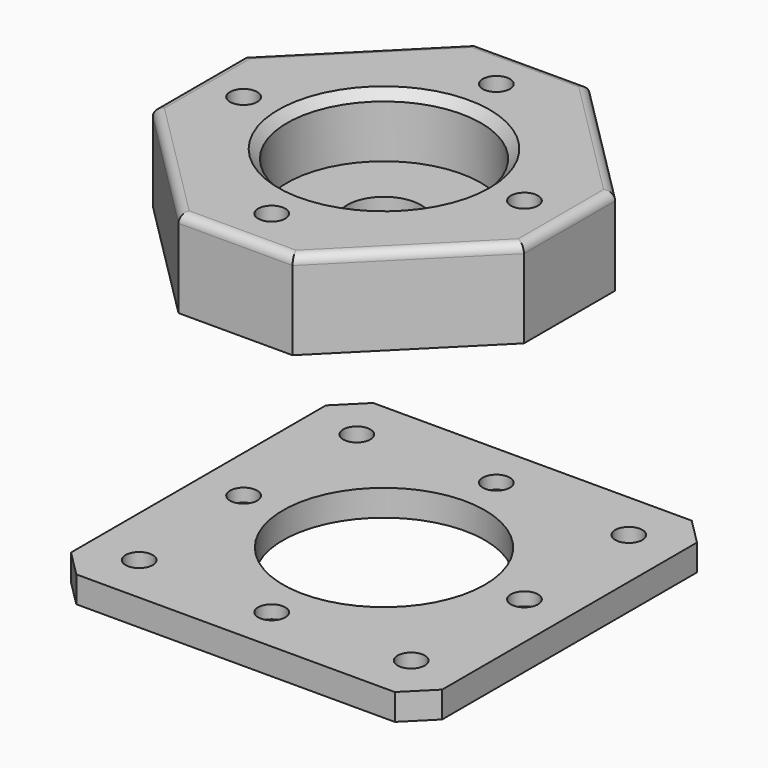
from build123d import *

# Parameters (mm, degrees)
SKETCH_W        = 42.3
SKETCH_H        = 42.3
SKETCH_R        = 1.55
SKETCH_R_2      = 11.5
PAD_DEPTH       = 3
SKETCH001_R     = 3.5
POCKET_DEPTH    = 1.5
CHAMFER_SIZE    = 3
SKETCH002_R     = 1.55
PAD001_DEPTH    = 10
SKETCH003_R     = 11.05
POCKET001_DEPTH = 7
CHAMFER001_SIZE = 1
SKETCH004_R     = 4.2
POCKET002_DEPTH = 3
FILLET_R        = 1


with BuildPart() as grundplatte:
    # Sketch → Pad (new body)
    with BuildSketch(Plane.XY):
        Rectangle(SKETCH_W, SKETCH_H)
        with Locations((-15.5, 15.5)):
            Circle(SKETCH_R, mode=Mode.SUBTRACT)
        with Locations((15.5, 15.5)):
            Circle(SKETCH_R, mode=Mode.SUBTRACT)
        with Locations((-15.5, -15.5)):
            Circle(SKETCH_R, mode=Mode.SUBTRACT)
        with Locations((15.5, -15.5)):
            Circle(SKETCH_R, mode=Mode.SUBTRACT)
        Circle(SKETCH_R_2, mode=Mode.SUBTRACT)
        with Locations((-16, 0)):
            Circle(SKETCH_R, mode=Mode.SUBTRACT)
        with Locations((16, 0)):
            Circle(SKETCH_R, mode=Mode.SUBTRACT)
        with Locations((0, -16)):
            Circle(SKETCH_R, mode=Mode.SUBTRACT)
        with Locations((0, 16)):
            Circle(SKETCH_R, mode=Mode.SUBTRACT)
    extrude(amount=PAD_DEPTH)

    # Sketch001 → Pocket (cut)
    with BuildSketch(Plane(origin=(0, 0, 0), x_dir=(1, 0, 0), z_dir=(0, 0, -1))):
        with Locations((-16, 0)):
            Circle(SKETCH001_R)
        with Locations((16, 0)):
            Circle(SKETCH001_R)
        with Locations((0, 16)):
            Circle(SKETCH001_R)
        with Locations((0, -16)):
            Circle(SKETCH001_R)
    extrude(amount=-POCKET_DEPTH, mode=Mode.SUBTRACT)

    # Chamfer
    chamfer_edges = [grundplatte.edges().sort_by_distance(p)[0] for p in [
        (-21.15, -21.15, 1.5),
        (-21.15, 21.15, 1.5),
        (21.15, 21.15, 1.5),
        (21.15, -21.15, 1.5),
    ]]
    chamfer(chamfer_edges, length=CHAMFER_SIZE)


with BuildPart() as obj1:
    # Sketch002 → Pad001 (new body)
    with BuildSketch(Plane.XY.offset(33)):
        Polygon((21.15, -6.5), (21.15, 6.5), (6.5, 21.15), (-6.5, 21.15), (-21.15, 6.5), (-21.15, -6.5), (-6.5, -21.15), (6.5, -21.15), align=None)
        with Locations((-16, 0)):
            Circle(SKETCH002_R, mode=Mode.SUBTRACT)
        with Locations((0, 16)):
            Circle(SKETCH002_R, mode=Mode.SUBTRACT)
        with Locations((16, 0)):
            Circle(SKETCH002_R, mode=Mode.SUBTRACT)
        with Locations((0, -16)):
            Circle(SKETCH002_R, mode=Mode.SUBTRACT)
    extrude(amount=PAD001_DEPTH)

    # Sketch003 → Pocket001 (cut)
    with BuildSketch(Plane.XY.offset(43)):
        Circle(SKETCH003_R)
    extrude(amount=-POCKET001_DEPTH, mode=Mode.SUBTRACT)

    # Chamfer001
    chamfer001_edges = [obj1.edges().sort_by_distance(p)[0] for p in [
        (-11.05, 0, 43),
    ]]
    chamfer(chamfer001_edges, length=CHAMFER001_SIZE)

    # Sketch004 → Pocket002 (cut)
    with BuildSketch(Plane.XY.offset(36)):
        Circle(SKETCH004_R)
    extrude(amount=-POCKET002_DEPTH, mode=Mode.SUBTRACT)

    # Fillet
    fillet_edges = [obj1.edges().sort_by_distance(p)[0] for p in [
        (0, 21.15, 43),
        (-13.825, 13.825, 43),
        (13.825, 13.825, 43),
        (21.15, 0, 43),
        (13.825, -13.825, 43),
        (0, -21.15, 43),
        (-13.825, -13.825, 43),
        (-21.15, 0, 43),
    ]]
    fillet(fillet_edges, radius=FILLET_R)


solid = Compound([grundplatte.part, obj1.part])
